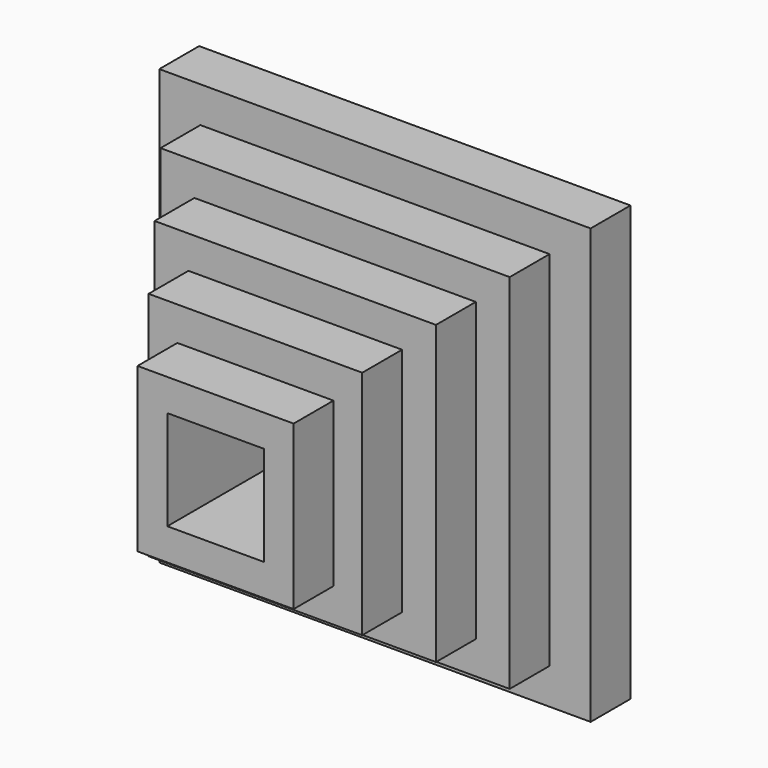
from build123d import *

# Parameters (mm, degrees)
F0_W     = 27.494848
F0_H     = 27.691236
F0_W_2   = 22.257734
F0_H_2   = 23.108764
F1_DEPTH = 3.175
F0_W_3   = 17.937114
F0_H_3   = 18.919074
F2_DEPTH = 6.35
F0_W_4   = 13.616496
F0_H_4   = 14.729382
F3_DEPTH = 9.525
F0_W_5   = 9.950516
F0_H_5   = 10.408764
F4_DEPTH = 12.7
F0_W_6   = 6.153608
F0_H_6   = 6.35
F5_DEPTH = 15.875


with BuildPart() as f1:
    # F0 (on Front) → F1 (new body)
    with BuildSketch(Plane.XZ):
        Rectangle(F0_W, F0_H)
        Rectangle(F0_W_2, F0_H_2, mode=Mode.SUBTRACT)
    extrude(amount=F1_DEPTH)

    # F0 (on Front) → F2 (join)
    with BuildSketch(Plane.XZ):
        Rectangle(F0_W_2, F0_H_2)
        Rectangle(F0_W_3, F0_H_3, mode=Mode.SUBTRACT)
    extrude(amount=F2_DEPTH)

    # F0 (on Front) → F3 (join)
    with BuildSketch(Plane.XZ):
        Rectangle(F0_W_3, F0_H_3)
        Rectangle(F0_W_4, F0_H_4, mode=Mode.SUBTRACT)
    extrude(amount=F3_DEPTH)

    # F0 (on Front) → F4 (join)
    with BuildSketch(Plane.XZ):
        Rectangle(F0_W_4, F0_H_4)
        Rectangle(F0_W_5, F0_H_5, mode=Mode.SUBTRACT)
    extrude(amount=F4_DEPTH)

    # F0 (on Front) → F5 (join)
    with BuildSketch(Plane.XZ):
        Rectangle(F0_W_5, F0_H_5)
        Rectangle(F0_W_6, F0_H_6, mode=Mode.SUBTRACT)
    extrude(amount=F5_DEPTH)


solid = f1.part
